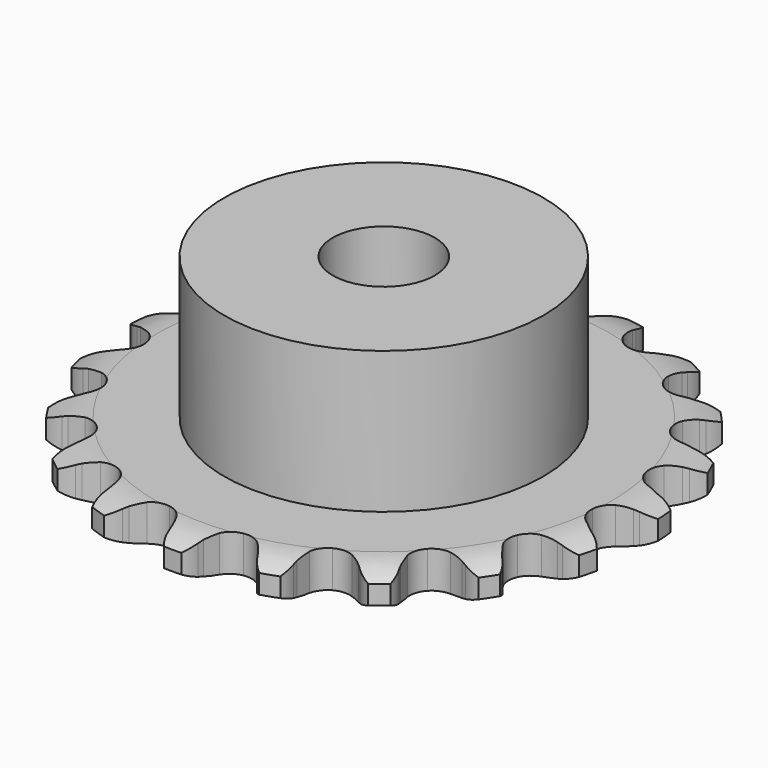
from build123d import *

# Parameters (mm, degrees)
PAD_DEPTH         = 2.9
SKETCH001_R       = 12.5
PAD001_DEPTH      = 14
SKETCH002_R       = 4
POCKET_DEPTH      = 0.0010001
POCKET_DEPTH_BACK = 14.001


with BuildPart() as part:
    # Sprocket → Pad (new body)
    with BuildSketch(Plane.XY):
        with BuildLine():
            ThreePointArc((-3.5076717909, 21.020324627), (-2.6501029004, 20.4450109534), (-2.0708773571, 19.5900793801))
            Line((-2.0708773571, 19.5900793801), (-1.9126502576, 19.2192155411))
            ThreePointArc((-1.9126502576, 19.2192155411), (-1.6554001149, 18.7114543982), (-1.3338588923, 18.2417627372))
            ThreePointArc((-1.3338588923, 18.2417627372), (-0.7415293607, 17.7641274061), (0, 17.5934698816))
            ThreePointArc((0, 17.5934698816), (0.7415293607, 17.7641274061), (1.3338588923, 18.2417627372))
            ThreePointArc((1.3338588923, 18.2417627372), (1.6554001149, 18.7114543982), (1.9126502576, 19.2192155411))
            Line((1.9126502576, 19.2192155411), (2.0708773571, 19.5900793801))
            ThreePointArc((2.0708773571, 19.5900793801), (2.6501029004, 20.4450109534), (3.5076717909, 21.020324627))
            ThreePointArc((3.5076717909, 21.020324627), (4.131971189, 20.1977308715), (4.4022168666, 19.2010476226))
            Line((4.4022168666, 19.2010476226), (4.4314514938, 18.7989019541))
            ThreePointArc((4.4314514938, 18.7989019541), (4.5098933406, 18.2351237257), (4.6615039398, 17.6864769902))
            ThreePointArc((4.6615039398, 17.6864769902), (5.066651485, 17.0423921743), (5.712590332, 16.6402071554))
            ThreePointArc((5.712590332, 16.6402071554), (6.4693539943, 16.5608437947), (7.1846774165, 16.8202704416))
            Line((7.1846774165, 16.8202704416), (8.0494866757, 17.5568289073))
            ThreePointArc((8.0494866757, 17.5568289073), (8.1810415887, 17.709666212), (8.3195598862, 17.8562220653))
            ThreePointArc((8.3195598862, 17.8562220653), (9.1449972199, 18.4767568613), (10.1429047069, 18.7424462898))
            ThreePointArc((10.1429047069, 18.7424462898), (10.4662820859, 17.7617132497), (10.3982625854, 16.7312844203))
            Line((10.3982625854, 16.7312844203), (10.2953367147, 16.3414356454))
            ThreePointArc((10.2953367147, 16.3414356454), (10.1864698743, 15.7827344505), (10.1517204893, 15.2145870273))
            ThreePointArc((10.1517204893, 15.2145870273), (10.3257820252, 14.4738493105), (10.8061328616, 13.8837197844))
            ThreePointArc((10.8061328616, 13.8837197844), (11.4961237401, 13.5629357901), (12.2569246608, 13.5760408501))
            Line((12.2569246608, 13.5760408501), (13.3140363118, 13.9918874392))
            ThreePointArc((13.3140363118, 13.9918874392), (13.4880894085, 14.0937277867), (13.6666890103, 14.187366022))
            ThreePointArc((13.6666890103, 14.187366022), (14.6488891914, 14.506259467), (15.6789965146, 14.433533078))
            ThreePointArc((15.6789965146, 14.433533078), (15.6664089176, 13.4009383959), (15.2674952073, 12.4484269384))
            Line((15.2674952073, 12.4484269384), (15.043562454, 12.113121221))
            ThreePointArc((15.043562454, 12.113121221), (14.7591843379, 11.6200410032), (14.5418406037, 11.0939604814))
            ThreePointArc((14.5418406037, 11.0939604814), (14.465953862, 10.3368402889), (14.7286632212, 9.6227159467))
            ThreePointArc((14.7286632212, 9.6227159467), (15.277110098, 9.095273242), (16.0009439324, 8.8606365786))
            Line((16.0009439324, 8.8606365786), (17.135803525, 8.9107078605))
            ThreePointArc((17.135803525, 8.9107078605), (17.3334934516, 8.950515269), (17.5328203197, 8.9810887304))
            ThreePointArc((17.5328203197, 8.9810887304), (18.5653467181, 8.9637837716), (19.5160257653, 8.5605225978))
            ThreePointArc((19.5160257653, 8.5605225978), (19.1688372538, 7.5879639299), (18.482257824, 6.8165892405))
            Line((18.482257824, 6.8165892405), (18.1615847765, 6.5721621579))
            ThreePointArc((18.1615847765, 6.5721621579), (17.7325121661, 6.1981358097), (17.3561266487, 5.7711311768))
            ThreePointArc((17.3561266487, 5.7711311768), (17.0385151353, 5.0796742294), (17.055114382, 4.3189415244))
            ThreePointArc((17.055114382, 4.3189415244), (17.402584528, 3.6419967104), (18.0110126486, 3.1850448469))
            Line((18.0110126486, 3.1850448469), (19.1006405369, 2.8639148212))
            ThreePointArc((19.1006405369, 2.8639148212), (19.3005445224, 2.8373755403), (19.4989984976, 2.801571119))
            ThreePointArc((19.4989984976, 2.801571119), (20.4699608568, 2.4499430171), (21.2381908019, 1.759846664))
            ThreePointArc((21.2381908019, 1.759846664), (20.5940246384, 0.9527158327), (19.6941810237, 0.4460683281))
            Line((19.6941810237, 0.4460683281), (19.3115175824, 0.3190073474))
            ThreePointArc((19.3115175824, 0.3190073474), (18.7842471528, 0.1045664272), (18.2896070633, -0.1770897391))
            ThreePointArc((18.2896070633, -0.1770897391), (17.764688914, -0.7279533521), (17.5333792622, -1.4528572274))
            ThreePointArc((17.5333792622, -1.4528572274), (17.6422188955, -2.2059466761), (18.0693086747, -2.8356959151))
            Line((18.0693086747, -2.8356959151), (18.9956267696, -3.4932278271))
            ThreePointArc((18.9956267696, -3.4932278271), (19.1760821154, -3.5832378546), (19.3521576303, -3.681540194))
            ThreePointArc((19.3521576303, -3.681540194), (20.1563371125, -4.3293870781), (20.6588683206, -5.2315359627))
            ThreePointArc((20.6588683206, -5.2315359627), (19.7875299042, -5.7857738079), (18.7719341227, -5.9727910091))
            Line((18.7719341227, -5.9727910091), (18.3687478092, -5.9687168592))
            ThreePointArc((18.3687478092, -5.9687168592), (17.8004174929, -6.0003343502), (17.2411247601, -6.106120234))
            ThreePointArc((17.2411247601, -6.106120234), (16.5657830013, -6.4566958925), (16.1116304409, -7.0672163552))
            ThreePointArc((16.1116304409, -7.0672163552), (15.9700450984, -7.8148415115), (16.1695147317, -8.5491450243))
            Line((16.1695147317, -8.5491450243), (16.8321420943, -9.4718250374))
            ThreePointArc((16.8321420943, -9.4718250374), (16.9735936636, -9.6155518283), (17.108210204, -9.765699502))
            ThreePointArc((17.108210204, -9.765699502), (17.6584614843, -10.639560906), (17.8408369015, -11.6560004921))
            ThreePointArc((17.8408369015, -11.6560004921), (16.8367492697, -11.8972850808), (15.815456883, -11.7444057631))
            Line((15.815456883, -11.7444057631), (15.4354391904, -11.6096379798))
            ThreePointArc((15.4354391904, -11.6096379798), (14.8876363957, -11.4550057959), (14.3242990655, -11.3734578553))
            ThreePointArc((14.3242990655, -11.3734578553), (13.5717174558, -11.485755247), (12.9439364636, -11.9157329318))
            ThreePointArc((12.9439364636, -11.9157329318), (12.5672691141, -12.5768770093), (12.5175029717, -13.3361616164))
            Line((12.5175029717, -13.3361616164), (12.8446336455, -14.4240030343))
            ThreePointArc((12.8446336455, -14.4240030343), (12.9317529659, -14.6058715607), (13.0103227408, -14.7915937385))
            ThreePointArc((13.0103227408, -14.7915937385), (13.247017555, -15.79677322), (13.0894739749, -16.8173565068))
            ThreePointArc((13.0894739749, -16.8173565068), (12.0614456028, -16.7195409099), (11.1451294879, -16.2433319194))
            Line((11.1451294879, -16.2433319194), (10.8294612298, -15.9924746833))
            ThreePointArc((10.8294612298, -15.9924746833), (10.3615488895, -15.668349621), (9.8552133028, -15.4083048406))
            ThreePointArc((9.8552133028, -15.4083048406), (9.106945737, -15.2701548007), (8.3735661246, -15.4729949535))
            ThreePointArc((8.3735661246, -15.4729949535), (7.80263452, -15.9760127329), (7.5090255356, -16.6779981656))
            Line((7.5090255356, -16.6779981656), (7.4652098362, -17.8131164911))
            ThreePointArc((7.4652098362, -17.8131164911), (7.4885561775, -18.0134184761), (7.5025649328, -18.2145892782))
            ThreePointArc((7.5025649328, -18.2145892782), (7.400053725, -19.2421600433), (6.9196634391, -20.1562909958))
            ThreePointArc((6.9196634391, -20.1562909958), (5.9790971522, -19.7299750509), (5.2670543783, -18.982041021))
            Line((5.2670543783, -18.982041021), (5.0499431085, -18.642278606))
            ThreePointArc((5.0499431085, -18.642278606), (4.7126267852, -18.1837846451), (4.3181622593, -17.773422912))
            ThreePointArc((4.3181622593, -17.773422912), (3.6552951389, -17.3997961408), (2.8957899668, -17.3535178838))
            ThreePointArc((2.8957899668, -17.3535178838), (2.1924634053, -17.6438995834), (1.6868286681, -18.2125148277))
            Line((1.6868286681, -18.2125148277), (1.2768147065, -19.271902377))
            ThreePointArc((1.2768147065, -19.271902377), (1.2338581304, -19.4689319926), (1.1817878, -19.6637514412))
            ThreePointArc((1.1817878, -19.6637514412), (0.7511792502, -20.6023602531), (0, -21.3109785983))
            ThreePointArc((0, -21.3109785983), (-0.7511792502, -20.6023602531), (-1.1817878, -19.6637514412))
            Line((-1.1817878, -19.6637514412), (-1.2768147065, -19.271902377))
            ThreePointArc((-1.2768147065, -19.271902377), (-1.4469815552, -18.7287244524), (-1.6868286681, -18.2125148277))
            ThreePointArc((-1.6868286681, -18.2125148277), (-2.1924634053, -17.6438995834), (-2.8957899668, -17.3535178838))
            ThreePointArc((-2.8957899668, -17.3535178838), (-3.6552951389, -17.3997961408), (-4.3181622593, -17.773422912))
            Line((-4.3181622593, -17.773422912), (-5.0499431085, -18.642278606))
            ThreePointArc((-5.0499431085, -18.642278606), (-5.1545475905, -18.8146846361), (-5.2670543783, -18.982041021))
            ThreePointArc((-5.2670543783, -18.982041021), (-5.9790971522, -19.7299750509), (-6.9196634391, -20.1562909958))
            ThreePointArc((-6.9196634391, -20.1562909958), (-7.400053725, -19.2421600433), (-7.5025649328, -18.2145892782))
            Line((-7.5025649328, -18.2145892782), (-7.4652098362, -17.8131164911))
            ThreePointArc((-7.4652098362, -17.8131164911), (-7.4497869919, -17.2441163592), (-7.5090255356, -16.6779981656))
            ThreePointArc((-7.5090255356, -16.6779981656), (-7.80263452, -15.9760127329), (-8.3735661246, -15.4729949535))
            ThreePointArc((-8.3735661246, -15.4729949535), (-9.106945737, -15.2701548007), (-9.8552133028, -15.4083048406))
            Line((-9.8552133028, -15.4083048406), (-10.8294612298, -15.9924746833))
            ThreePointArc((-10.8294612298, -15.9924746833), (-10.9843780988, -16.1215742594), (-11.1451294879, -16.2433319194))
            ThreePointArc((-11.1451294879, -16.2433319194), (-12.0614456028, -16.7195409099), (-13.0894739749, -16.8173565068))
            ThreePointArc((-13.0894739749, -16.8173565068), (-13.247017555, -15.79677322), (-13.0103227408, -14.7915937385))
            Line((-13.0103227408, -14.7915937385), (-12.8446336455, -14.4240030343))
            ThreePointArc((-12.8446336455, -14.4240030343), (-12.6452924127, -13.8908406885), (-12.5175029717, -13.3361616164))
            ThreePointArc((-12.5175029717, -13.3361616164), (-12.5672691141, -12.5768770093), (-12.9439364636, -11.9157329318))
            ThreePointArc((-12.9439364636, -11.9157329318), (-13.5717174558, -11.485755247), (-14.3242990655, -11.3734578553))
            Line((-14.3242990655, -11.3734578553), (-15.4354391904, -11.6096379798))
            ThreePointArc((-15.4354391904, -11.6096379798), (-15.6238808, -11.6814411596), (-15.815456883, -11.7444057631))
            ThreePointArc((-15.815456883, -11.7444057631), (-16.8367492697, -11.8972850808), (-17.8408369015, -11.6560004921))
            ThreePointArc((-17.8408369015, -11.6560004921), (-17.6584614843, -10.639560906), (-17.108210204, -9.765699502))
            Line((-17.108210204, -9.765699502), (-16.8321420943, -9.4718250374))
            ThreePointArc((-16.8321420943, -9.4718250374), (-16.4704841886, -9.0322768905), (-16.1695147317, -8.5491450243))
            ThreePointArc((-16.1695147317, -8.5491450243), (-15.9700450984, -7.8148415115), (-16.1116304409, -7.0672163552))
            ThreePointArc((-16.1116304409, -7.0672163552), (-16.5657830013, -6.4566958925), (-17.2411247601, -6.106120234))
            Line((-17.2411247601, -6.106120234), (-18.3687478092, -5.9687168592))
            ThreePointArc((-18.3687478092, -5.9687168592), (-18.570293587, -5.975442654), (-18.7719341227, -5.9727910091))
            ThreePointArc((-18.7719341227, -5.9727910091), (-19.7875299042, -5.7857738079), (-20.6588683206, -5.2315359627))
            ThreePointArc((-20.6588683206, -5.2315359627), (-20.1563371125, -4.3293870781), (-19.3521576303, -3.681540194))
            Line((-19.3521576303, -3.681540194), (-18.9956267696, -3.4932278271))
            ThreePointArc((-18.9956267696, -3.4932278271), (-18.5108434368, -3.1949257413), (-18.0693086747, -2.8356959151))
            ThreePointArc((-18.0693086747, -2.8356959151), (-17.6422188955, -2.2059466761), (-17.5333792622, -1.4528572274))
            ThreePointArc((-17.5333792622, -1.4528572274), (-17.764688914, -0.7279533521), (-18.2896070633, -0.1770897391))
            Line((-18.2896070633, -0.1770897391), (-19.3115175824, 0.3190073474))
            ThreePointArc((-19.3115175824, 0.3190073474), (-19.504326916, 0.3780877817), (-19.6941810237, 0.4460683281))
            ThreePointArc((-19.6941810237, 0.4460683281), (-20.5940246384, 0.9527158327), (-21.2381908019, 1.759846664))
            ThreePointArc((-21.2381908019, 1.759846664), (-20.4699608568, 2.4499430171), (-19.4989984976, 2.801571119))
            Line((-19.4989984976, 2.801571119), (-19.1006405369, 2.8639148212))
            ThreePointArc((-19.1006405369, 2.8639148212), (-18.5452655733, 2.9886451864), (-18.0110126486, 3.1850448469))
            ThreePointArc((-18.0110126486, 3.1850448469), (-17.402584528, 3.6419967104), (-17.055114382, 4.3189415244))
            ThreePointArc((-17.055114382, 4.3189415244), (-17.0385151353, 5.0796742294), (-17.3561266487, 5.7711311768))
            Line((-17.3561266487, 5.7711311768), (-18.1615847765, 6.5721621579))
            ThreePointArc((-18.1615847765, 6.5721621579), (-18.3247637829, 6.6906465396), (-18.482257824, 6.8165892405))
            ThreePointArc((-18.482257824, 6.8165892405), (-19.1688372538, 7.5879639299), (-19.5160257653, 8.5605225978))
            ThreePointArc((-19.5160257653, 8.5605225978), (-18.5653467181, 8.9637837716), (-17.5328203197, 8.9810887304))
            Line((-17.5328203197, 8.9810887304), (-17.135803525, 8.9107078605))
            ThreePointArc((-17.135803525, 8.9107078605), (-16.5700204255, 8.8483500346), (-16.0009439324, 8.8606365786))
            ThreePointArc((-16.0009439324, 8.8606365786), (-15.277110098, 9.095273242), (-14.7286632212, 9.6227159467))
            ThreePointArc((-14.7286632212, 9.6227159467), (-14.465953862, 10.3368402889), (-14.5418406037, 11.0939604814))
            Line((-14.5418406037, 11.0939604814), (-15.043562454, 12.113121221))
            ThreePointArc((-15.043562454, 12.113121221), (-15.1594281559, 12.2781699289), (-15.2674952073, 12.4484269384))
            ThreePointArc((-15.2674952073, 12.4484269384), (-15.6664089176, 13.4009383959), (-15.6789965146, 14.433533078))
            ThreePointArc((-15.6789965146, 14.433533078), (-14.6488891914, 14.506259467), (-13.6666890103, 14.187366022))
            Line((-13.6666890103, 14.187366022), (-13.3140363118, 13.9918874392))
            ThreePointArc((-13.3140363118, 13.9918874392), (-12.7991564542, 13.7491988602), (-12.2569246608, 13.5760408501))
            ThreePointArc((-12.2569246608, 13.5760408501), (-11.4961237401, 13.5629357901), (-10.8061328616, 13.8837197844))
            ThreePointArc((-10.8061328616, 13.8837197844), (-10.3257820252, 14.4738493105), (-10.1517204893, 15.2145870273))
            Line((-10.1517204893, 15.2145870273), (-10.2953367147, 16.3414356454))
            ThreePointArc((-10.2953367147, 16.3414356454), (-10.3513332655, 16.535163091), (-10.3982625854, 16.7312844203))
            ThreePointArc((-10.3982625854, 16.7312844203), (-10.4662820859, 17.7617132497), (-10.1429047069, 18.7424462898))
            ThreePointArc((-10.1429047069, 18.7424462898), (-9.1449972199, 18.4767568613), (-8.3195598862, 17.8562220653))
            Line((-8.3195598862, 17.8562220653), (-8.0494866757, 17.5568289073))
            ThreePointArc((-8.0494866757, 17.5568289073), (-7.6413052817, 17.1601086485), (-7.1846774165, 16.8202704416))
            ThreePointArc((-7.1846774165, 16.8202704416), (-6.4693539943, 16.5608437947), (-5.712590332, 16.6402071554))
            ThreePointArc((-5.712590332, 16.6402071554), (-5.066651485, 17.0423921743), (-4.6615039398, 17.6864769902))
            Line((-4.6615039398, 17.6864769902), (-4.4314514938, 18.7989019541))
            ThreePointArc((-4.4314514938, 18.7989019541), (-4.4215107982, 19.0003147626), (-4.4022168666, 19.2010476226))
            ThreePointArc((-4.4022168666, 19.2010476226), (-4.131971189, 20.1977308715), (-3.5076717909, 21.020324627))
        make_face()
    extrude(amount=PAD_DEPTH)

    # Sketch → Groove (revolve, cut)
    with BuildSketch(Plane.XZ):
        with BuildLine():
            Line((17.7896735578, 0), (20.7, 0))
            Line((23.6103264422, 0), (20.7, 0))
            Line((23.6103264422, 2.9), (23.6103264422, 0))
            Line((20.7, 2.9), (23.6103264422, 2.9))
            Line((17.7896735578, 2.9), (20.7, 2.9))
            ThreePointArc((20.7, 2.2), (19.2863365125, 2.7225396744), (17.7896735578, 2.9))
            Line((20.7, 0.7), (20.7, 2.2))
            ThreePointArc((17.7896735578, 0), (19.2863365125, 0.1774603256), (20.7, 0.7))
        make_face()
    revolve(axis=Axis((0, 0, 0), (0, 0, 1)), mode=Mode.SUBTRACT)

    # Sketch001 → Pad001 (join)
    with BuildSketch(Plane.XY):
        Circle(SKETCH001_R)
    extrude(amount=PAD001_DEPTH)

    # Sketch002 → Pocket (cut, two sides)
    with BuildSketch(Plane.XY) as pocket_sk:
        Circle(SKETCH002_R)
    extrude(amount=-POCKET_DEPTH, mode=Mode.SUBTRACT)
    extrude(pocket_sk.sketch, amount=POCKET_DEPTH_BACK, mode=Mode.SUBTRACT)


solid = part.part
